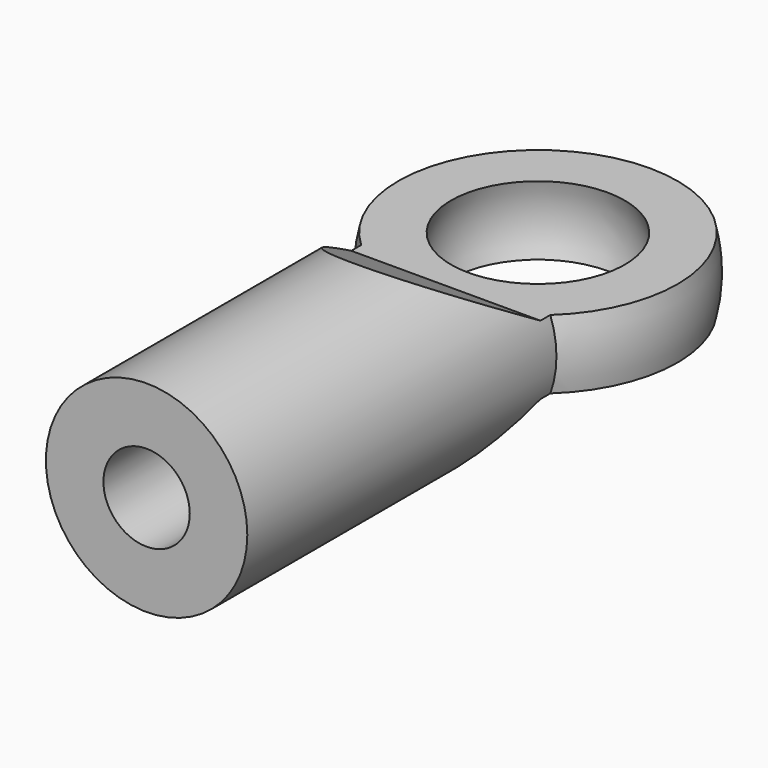
from build123d import *

# Parameters (mm, degrees)
F2_R          = 3.5
F3_DEPTH      = 17
F7_DEPTH      = 6
F7_DEPTH_BACK = 6
F8_R          = 1.5
F9_DEPTH      = 8


with BuildPart() as f1:
    # F0 (on Right) → F1 (revolve)
    with BuildSketch(Plane.YZ):
        with BuildLine():
            Line((0, 5), (0, -5))
            ThreePointArc((0, -5), (5, 0), (0, 5))
        make_face()
    revolve(axis=Axis((0, 0, 0), (0, 0, -1)))

    # F2 (on Front) → F3 (join)
    with BuildSketch(Plane.XZ):
        Circle(F2_R)
    extrude(amount=F3_DEPTH)

    # F4 (on Right) → F5 (revolve, cut)
    with BuildSketch(Plane.YZ):
        with BuildLine():
            Line((0, 3.25), (0, -3.25))
            ThreePointArc((0, -3.25), (3.25, 0), (0, 3.25))
        make_face()
    revolve(axis=Axis((0, 0, 0), (0, 0, -1)), mode=Mode.SUBTRACT)

    # F6 (on Right) → F7 (cut, two sides)
    with BuildSketch(Plane.YZ) as f7_sk:
        Polygon((-4, 1.2), (5.5, 1.2), (5.5, 5.2), (-10.9282032303, 5.2), align=None)
        Polygon((-10.9282032303, -5.2), (5.5, -5.2), (5.5, -1.2), (-4, -1.2), align=None)
    extrude(amount=-F7_DEPTH, mode=Mode.SUBTRACT)
    extrude(f7_sk.sketch, amount=F7_DEPTH_BACK, mode=Mode.SUBTRACT)

    # F8 (on face) → F9 (cut)
    with BuildSketch(Plane.XZ.offset(17)):
        Circle(F8_R)
    extrude(amount=-F9_DEPTH, mode=Mode.SUBTRACT)


solid = f1.part
